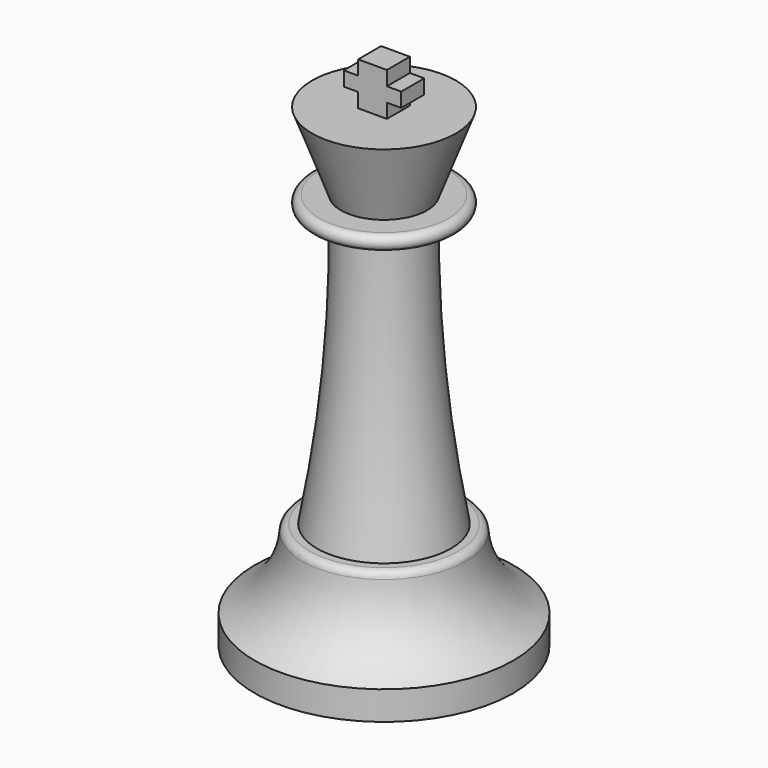
from build123d import *

# Parameters (mm, degrees)
F2_W     = 5.08
F2_H     = 5.08
F3_DEPTH = 2.54
F4_W     = 2.54
F4_H     = 5.08
F4_W_2   = 5.08
F5_DEPTH = 2.54
F6_W     = 5.08
F6_H     = 5.08
F7_DEPTH = 2.54
F8_R     = 1.27


with BuildPart() as f1:
    # F0 (on Front) → F1 (revolve)
    with BuildSketch(Plane.XZ):
        with BuildLine():
            Line((0, 83.82), (0, 0))
            Line((0, 0), (22.86, 0))
            Line((22.86, 0), (22.86, 5.08))
            ThreePointArc((22.86, 5.08), (16.6236237238, 10.7941273506), (14.3945977767, 18.9534829479))
            Line((14.3945977767, 18.9534829479), (11.8545977767, 18.9534829479))
            ThreePointArc((11.8545977767, 18.9534829479), (8.4999635218, 43.2049976701), (7.62, 67.6716116881))
            Line((7.62, 67.6716116881), (11.43, 67.6716116881))
            ThreePointArc((11.43, 67.6716116881), (12.7, 68.9416116881), (11.43, 70.2116116881))
            Line((11.43, 70.2116116881), (7.62, 70.2116116881))
            Line((7.62, 70.2116116881), (12.7, 83.82))
            Line((12.7, 83.82), (0, 83.82))
        make_face()
    revolve(axis=Axis((0, 0, 41.91), (0, 0, 1)))

    # F2 (on face) → F3 (join)
    with BuildSketch(Plane.XY.offset(83.82)):
        Rectangle(F2_W, F2_H)
    extrude(amount=F3_DEPTH)

    # F4 (on face) → F5 (join)
    with BuildSketch(Plane.XY.offset(86.36)):
        with Locations((-3.81, 0)):
            Rectangle(F4_W, F4_H)
        Rectangle(F4_W_2, F4_H)
        with Locations((3.81, 0)):
            Rectangle(F4_W, F4_H)
    extrude(amount=F5_DEPTH)

    # F6 (on face) → F7 (join)
    with BuildSketch(Plane.XY.offset(88.9)):
        Rectangle(F6_W, F6_H)
    extrude(amount=F7_DEPTH)

    # F8
    f8_edges = [f1.edges().sort_by_distance(p)[0] for p in [
        (-14.394598, 0, 18.953483),
    ]]
    fillet(f8_edges, radius=F8_R)


solid = f1.part
